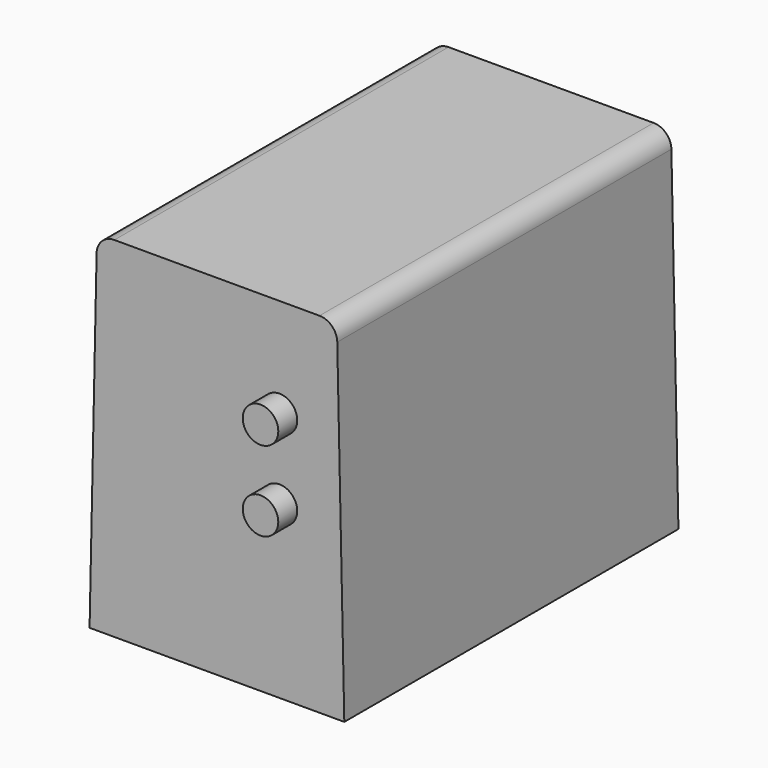
from build123d import *

# Parameters (mm, degrees)
F1_DEPTH = 447.675
F2_R     = 19.05
F3_DEPTH = 25.4


with BuildPart() as f1:
    # F0 (on Front) → F1 (new body)
    with BuildSketch(Plane.XZ):
        with BuildLine():
            Line((113.057586, 185.428598), (3.12076, 185.428598))
            Line((3.12076, 185.428598), (-106.816067, 185.428598))
            ThreePointArc((-106.816067, 185.428598), (-120.143025, 179.990897), (-125.861793, 166.782109))
            Line((-125.861793, 166.782109), (-133.40424, -189.221402))
            Line((-133.40424, -189.221402), (3.12076, -189.221402))
            Line((3.12076, -189.221402), (139.64576, -189.221402))
            Line((139.64576, -189.221402), (132.103312, 166.782109))
            ThreePointArc((132.103312, 166.782109), (126.384544, 179.990897), (113.057586, 185.428598))
        make_face()
    extrude(amount=-F1_DEPTH)

    # F2 (on face) → F3 (join)
    with BuildSketch(Plane.XZ):
        with Locations((70.142567, 78.941181)):
            Circle(F2_R)
        with Locations((70.142567, -6.655197)):
            Circle(F2_R)
    extrude(amount=F3_DEPTH)


solid = f1.part
